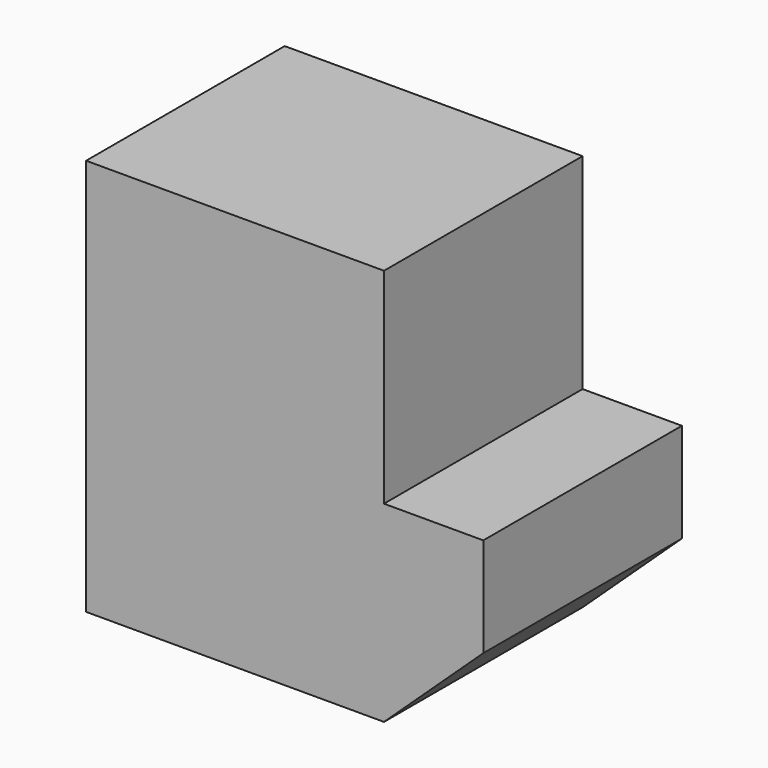
from build123d import *

# Parameters (mm, degrees)
F0_W     = 20
F0_H     = 21
F0_H_2   = 9
F1_DEPTH = 25


with BuildPart() as f1:
    # F0 (on Front) → F1 (new body)
    with BuildSketch(Plane.XZ):
        with Locations((10, 19.5)):
            Rectangle(F0_W, F0_H)
        Polygon((20, 9), (20, 0), (30, 0), (40, 9.348061), (40, 19.348061), (30, 19.348061), (30, 40), (0, 40), (0, 30), (20, 30), align=None)
        with Locations((10, 4.5)):
            Rectangle(F0_W, F0_H_2)
    extrude(amount=F1_DEPTH)


solid = f1.part
